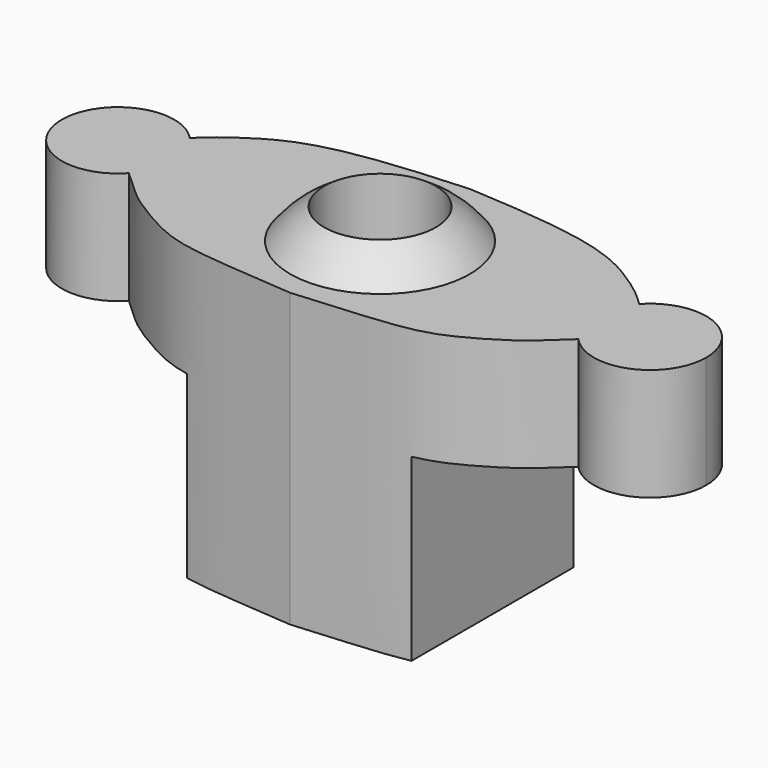
from build123d import *

# Parameters (mm, degrees)
F0_W      = 25.4
F0_H      = 25.4
F1_DEPTH  = 25.4
F2_R      = 6.3119
F3_DEPTH  = 8.0264
F7_W      = 25.4
F7_H      = 12.7
F8_DEPTH  = 50.8
F9_DEPTH  = 25.4
F11_DEPTH = 50.8
F12_DEPTH = 50.8
F13_DEPTH = 25.4
F14_DEPTH = 50.8
F15_DEPTH = 50.8


with BuildPart() as f1:
    # F0 (on Front) → F1 (new body)
    with BuildSketch(Plane.XZ):
        with Locations((-12.7, 12.7)):
            Rectangle(F0_W, F0_H)
    extrude(amount=F1_DEPTH)

    # F2 (on Top) → F3 (cut)
    with BuildSketch(Plane.XY):
        Polygon((-7.2579364777, -22.1902352696), (-1.7601834075, -12.7321523755), (-7.2022469298, -3.2419171059), (-18.1420635223, -3.2097647304), (-23.6398165925, -12.6678476245), (-18.1977530702, -22.1580828941), align=None)
        with Locations((-12.7, -12.7)):
            Circle(F2_R, mode=Mode.SUBTRACT)
    extrude(amount=F3_DEPTH, mode=Mode.SUBTRACT)

    # F5 (on offset) → F6 (revolve)
    with BuildSketch(Plane.XZ.offset(12.7)):
        with BuildLine():
            Line((-12.7, 25.4), (-12.7, 38.1))
            ThreePointArc((-12.7, 38.1), (-21.6802561211, 34.3802561211), (-25.4, 25.4))
            Line((-25.4, 25.4), (-12.7, 25.4))
        make_face()
    revolve(axis=Axis((-12.7, -12.7, 31.75), (0, 0, 1)))

    # F7 (on Right) → F8 (join)
    with BuildSketch(Plane.YZ):
        with Locations((-12.7, 26.67)):
            Rectangle(F7_W, F7_H)
    extrude(amount=-F8_DEPTH)

    # F7 (on Right) → F9 (join)
    with BuildSketch(Plane.YZ):
        with Locations((-12.7, 26.67)):
            Rectangle(F7_W, F7_H)
    extrude(amount=F9_DEPTH)

    # F10 (on face) → F11 (cut)
    with BuildSketch(Plane.XY.offset(33.02)):
        with BuildLine():
            add(Edge.make_bspline(
                [(-12.7, 0), (-17.3658879301, -0.2554953412), (-25.0834624368, -0.8683027323), (-31.191647473, -2.7804494515), (-34.6991875165, -5.0056243623), (-36.660656333, -6.4021432772), (-38.1, -7.8327860683)],
                knots=[0, 0, 0, 0, 0.3525244295, 0.5971540178, 0.7887122331, 1, 1, 1, 1], degree=3))
            Line((-12.7, 0), (-38.1, 0))
            Line((-38.1, 0), (-38.1, -7.8327860683))
        make_face()
    extrude(amount=-F11_DEPTH, mode=Mode.SUBTRACT)

    # F10 (on face) → F12 (cut)
    with BuildSketch(Plane.XY.offset(33.02)):
        with BuildLine():
            add(Edge.make_bspline(
                [(-12.7, -25.4), (-17.3987553045, -24.9769857908), (-25.3139427174, -24.6420420616), (-30.0058965126, -22.5738416728), (-34.8725168747, -19.6257840333), (-36.0709987581, -18.2458739728), (-38.1, -16.4399109781)],
                knots=[0, 0, 0, 0, 0.3473379926, 0.5672748801, 0.7821069123, 1, 1, 1, 1], degree=3))
            Line((-38.1, -16.4399109781), (-38.1, -25.4))
            Line((-38.1, -25.4), (-12.7, -25.4))
        make_face()
    extrude(amount=-F12_DEPTH, mode=Mode.SUBTRACT)

    # F10 (on face) → F13 (cut)
    with BuildSketch(Plane.XY.offset(33.02)):
        with BuildLine():
            Line((-38.1, -7.8327860683), (-38.1, 0))
            Line((-38.1, 0), (-50.8, 0))
            Line((-50.8, 0), (-50.8, -25.4))
            Line((-50.8, -25.4), (-38.1, -25.4))
            Line((-38.1, -25.4), (-38.1, -16.4399109781))
            ThreePointArc((-38.1, -16.4399109781), (-49.1192451421, -12.1363485232), (-38.1, -7.8327860683))
        make_face()
    extrude(amount=-F13_DEPTH, mode=Mode.SUBTRACT)

    # F10 (on face) → F14 (cut)
    with BuildSketch(Plane.XY.offset(33.02)):
        with BuildLine():
            Line((25.4, 0), (-12.7, 0))
            add(Edge.make_bspline(
                [(-12.7, 0), (-8.0341120699, -0.2554953412), (-0.3165375632, -0.8683027323), (5.791647473, -2.7804494515), (9.2991875165, -5.0056243623), (11.260656333, -6.4021432772), (12.7, -7.8327860683)],
                knots=[0, 0, 0, 0, 0.3525244295, 0.5971540178, 0.7887122331, 1, 1, 1, 1], degree=3))
            ThreePointArc((12.7, -7.8327860683), (19.6793093563, -6.22144334), (23.7192451421, -12.1363485232))
            ThreePointArc((23.7192451421, -12.1363485232), (19.6793093563, -18.0512537064), (12.7, -16.4399109781))
            add(Edge.make_bspline(
                [(-12.7, -25.4), (-8.0012446955, -24.9769857908), (-0.0860572826, -24.6420420616), (4.6058965126, -22.5738416728), (9.4725168747, -19.6257840333), (10.6709987581, -18.2458739728), (12.7, -16.4399109781)],
                knots=[0, 0, 0, 0, 0.3473379926, 0.5672748801, 0.7821069123, 1, 1, 1, 1], degree=3))
            Line((-12.7, -25.4), (25.4, -25.4))
            Line((25.4, -25.4), (25.4, 0))
        make_face()
    extrude(amount=-F14_DEPTH, mode=Mode.SUBTRACT)

    # F2 (on Top) → F15 (cut)
    with BuildSketch(Plane.XY):
        with Locations((-12.7, -12.7)):
            Circle(F2_R)
    extrude(amount=F15_DEPTH, mode=Mode.SUBTRACT)


solid = f1.part
